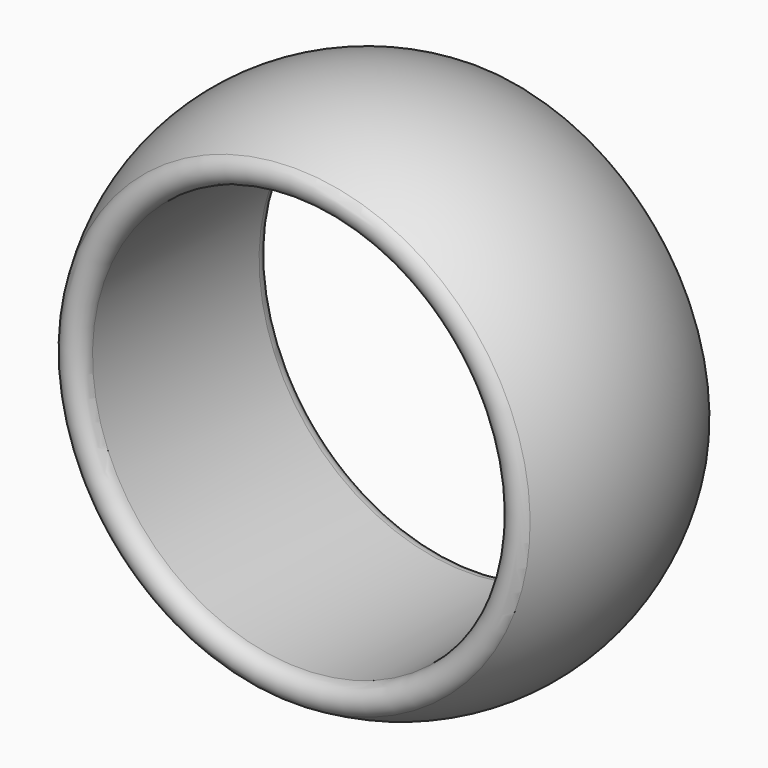
from build123d import *


with BuildPart() as f1:
    # F0 (on Right) → F1 (revolve)
    with BuildSketch(Plane.YZ):
        with BuildLine():
            ThreePointArc((0, 7), (0.480762, 7.362639), (0.264151, 7.924528))
            ThreePointArc((0.264151, 7.924528), (-3.5, 9), (-7.264151, 7.924528))
            ThreePointArc((-7.264151, 7.924528), (-7.480762, 7.362639), (-7, 7))
            Line((-7, 7), (0, 7))
        make_face()
    revolve(axis=Axis((0, -4.795848, 0), (0, -1, 0)))


solid = f1.part
